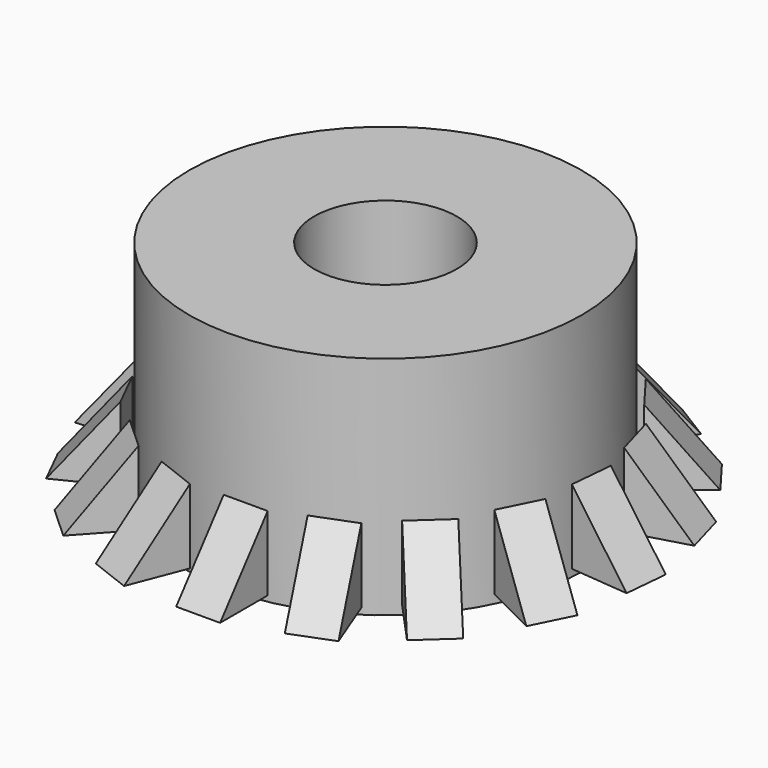
from build123d import *

# Parameters (mm, degrees)
F0_W     = 14.203052
F0_H     = 25.700762
F3_DEPTH = 5
F4_COUNT = 17


with BuildPart() as f1:
    # F0 (on Front) → F1 (revolve)
    with BuildSketch(Plane.XZ):
        with Locations((-15.21756, -1.183586)):
            Rectangle(F0_W, F0_H)
    revolve(axis=Axis((0, 0, -2.029007), (0, 0, -1)))


with BuildPart() as f3:
    # F2 (on Right) → F3 (new body)
    with BuildSketch(Plane.YZ):
        Polygon((-22.995414, -12.681296), (-22.995414, -4.227099), (-29.758776, -12.681296), align=None)
    extrude(amount=F3_DEPTH)


with BuildPart() as f4_1:
    # F4: instance of F3
    add(f3.part.rotate(Axis((0, 0, -2.029007), (0, 0, -1)), 1 * 360 / F4_COUNT))


with BuildPart() as f4_2:
    # F4: instance of F3
    add(f3.part.rotate(Axis((0, 0, -2.029007), (0, 0, -1)), 2 * 360 / F4_COUNT))


with BuildPart() as f4_3:
    # F4: instance of F3
    add(f3.part.rotate(Axis((0, 0, -2.029007), (0, 0, -1)), 3 * 360 / F4_COUNT))


with BuildPart() as f4_4:
    # F4: instance of F3
    add(f3.part.rotate(Axis((0, 0, -2.029007), (0, 0, -1)), 4 * 360 / F4_COUNT))


with BuildPart() as f4_5:
    # F4: instance of F3
    add(f3.part.rotate(Axis((0, 0, -2.029007), (0, 0, -1)), 5 * 360 / F4_COUNT))


with BuildPart() as f4_6:
    # F4: instance of F3
    add(f3.part.rotate(Axis((0, 0, -2.029007), (0, 0, -1)), 6 * 360 / F4_COUNT))


with BuildPart() as f4_7:
    # F4: instance of F3
    add(f3.part.rotate(Axis((0, 0, -2.029007), (0, 0, -1)), 7 * 360 / F4_COUNT))


with BuildPart() as f4_8:
    # F4: instance of F3
    add(f3.part.rotate(Axis((0, 0, -2.029007), (0, 0, -1)), 8 * 360 / F4_COUNT))


with BuildPart() as f4_9:
    # F4: instance of F3
    add(f3.part.rotate(Axis((0, 0, -2.029007), (0, 0, -1)), 9 * 360 / F4_COUNT))


with BuildPart() as f4_10:
    # F4: instance of F3
    add(f3.part.rotate(Axis((0, 0, -2.029007), (0, 0, -1)), 10 * 360 / F4_COUNT))


with BuildPart() as f4_11:
    # F4: instance of F3
    add(f3.part.rotate(Axis((0, 0, -2.029007), (0, 0, -1)), 11 * 360 / F4_COUNT))


with BuildPart() as f4_12:
    # F4: instance of F3
    add(f3.part.rotate(Axis((0, 0, -2.029007), (0, 0, -1)), 12 * 360 / F4_COUNT))


with BuildPart() as f4_13:
    # F4: instance of F3
    add(f3.part.rotate(Axis((0, 0, -2.029007), (0, 0, -1)), 13 * 360 / F4_COUNT))


with BuildPart() as f4_14:
    # F4: instance of F3
    add(f3.part.rotate(Axis((0, 0, -2.029007), (0, 0, -1)), 14 * 360 / F4_COUNT))


with BuildPart() as f4_15:
    # F4: instance of F3
    add(f3.part.rotate(Axis((0, 0, -2.029007), (0, 0, -1)), 15 * 360 / F4_COUNT))


with BuildPart() as f4_16:
    # F4: instance of F3
    add(f3.part.rotate(Axis((0, 0, -2.029007), (0, 0, -1)), 16 * 360 / F4_COUNT))


solid = Compound([f1.part, f3.part, f4_1.part, f4_2.part, f4_3.part, f4_4.part, f4_5.part, f4_6.part, f4_7.part, f4_8.part, f4_9.part, f4_10.part, f4_11.part, f4_12.part, f4_13.part, f4_14.part, f4_15.part, f4_16.part])
